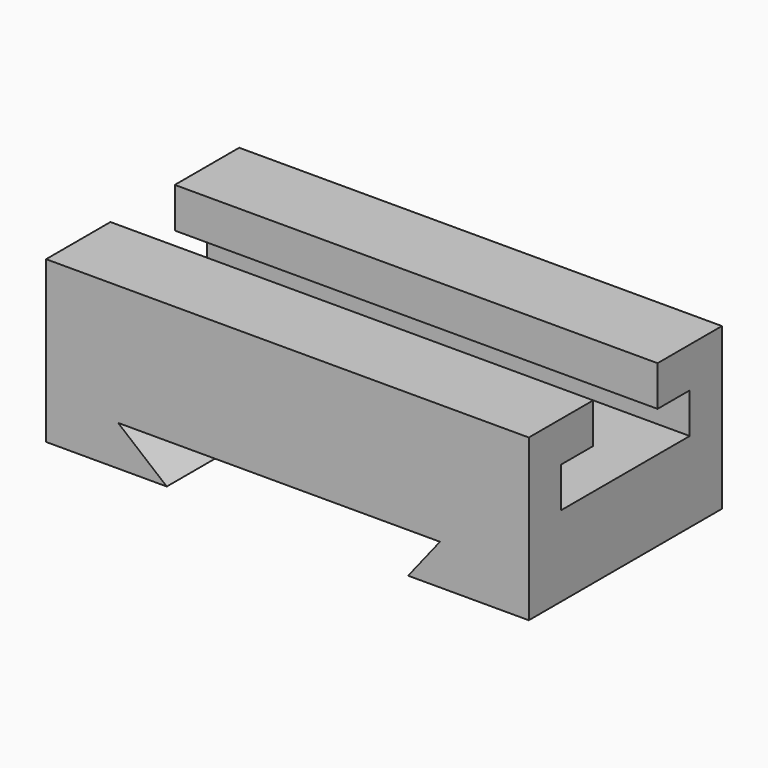
from build123d import *

# Parameters (mm, degrees)
F1_DEPTH = 76.2
F3_DEPTH = 152.4


with BuildPart() as f1:
    # F0 (on Front) → F1 (new body)
    with BuildSketch(Plane.XZ):
        Polygon((3.736126, -61.559167), (41.836126, -61.559167), (41.836126, -10.759167), (-110.563874, -10.759167), (-110.563874, -61.559167), (-72.463874, -61.559167), (-87.815084, -48.859167), (13.784916, -48.859167), align=None)
    extrude(amount=-F1_DEPTH)

    # F2 (on face) → F3 (cut)
    with BuildSketch(Plane.YZ.offset(41.836126)):
        Polygon((12.7, -23.459167), (12.7, -36.159167), (63.5, -36.159167), (63.5, -23.459167), (50.8, -23.459167), (50.8, -10.759167), (25.4, -10.759167), (25.4, -23.459167), align=None)
    extrude(amount=-F3_DEPTH, mode=Mode.SUBTRACT)


solid = f1.part
